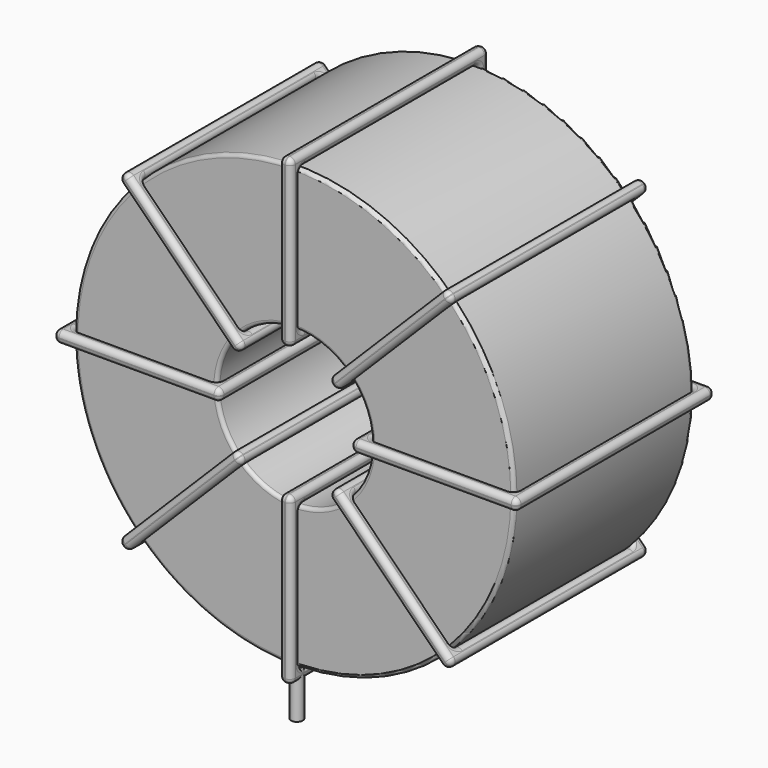
from build123d import *

# Parameters (mm, degrees)
SKETCH001_R       = 0.85
PAD001_DEPTH      = 1.7
PAD001_DEPTH_BACK = 5.2
SKETCH_R          = 32.1
SKETCH_R_2        = 11.266667
PAD_DEPTH         = 16.35
FILLET_R          = 0.5
SKETCH003_W       = 24.233333
SKETCH003_H       = 36.1
SKETCH003_W_2     = 20.833333
SKETCH003_H_2     = 32.7
PAD002_DEPTH      = 0.85
FILLET001_R       = 0.799
SKETCH004_W       = 24.233333
SKETCH004_H       = 36.1
SKETCH004_W_2     = 20.833333
SKETCH004_H_2     = 32.7
PAD003_DEPTH      = 0.85
FILLET002_R       = 0.799
SKETCH005_W       = 24.233333
SKETCH005_H       = 36.1
SKETCH005_W_2     = 20.833333
SKETCH005_H_2     = 32.7
PAD004_DEPTH      = 0.85
FILLET003_R       = 0.799
SKETCH006_W       = 24.233333
SKETCH006_H       = 36.1
SKETCH006_W_2     = 20.833333
SKETCH006_H_2     = 32.7
PAD005_DEPTH      = 0.85
FILLET004_R       = 0.799


with BuildPart() as pad001:
    # Sketch001 → Pad001 (new body, two sides)
    with BuildSketch(Plane.XY.offset(2.2)) as pad001_sk:
        Circle(SKETCH001_R)
        with Locations((0, -31.8)):
            Circle(SKETCH001_R)
    extrude(amount=PAD001_DEPTH)
    extrude(pad001_sk.sketch, amount=-PAD001_DEPTH_BACK)


with BuildPart() as fillet_body:
    # Sketch → Pad (new body, symmetric)
    with BuildSketch(Plane.XZ.offset(15.9)):
        with Locations((0, 36)):
            Circle(SKETCH_R)
        with Locations((0, 36)):
            Circle(SKETCH_R_2, mode=Mode.SUBTRACT)
    extrude(amount=PAD_DEPTH, both=True)

    # Fillet
    fillet_edges = [fillet_body.edges().sort_by_distance(p)[0] for p in [
        (-11.266667, -32.25, 36),
        (-32.1, -32.25, 36),
        (-32.1, 0.45, 36),
    ]]
    fillet(fillet_edges, radius=FILLET_R)


with BuildPart() as fillet001:
    # Sketch003 → Pad002 (new body, symmetric)
    with BuildSketch(Plane(origin=(0, 2.15, 36), x_dir=(1, 0, 0), z_dir=(0, 0, -1))):
        with Locations((-21.683333, 18.05)):
            Rectangle(SKETCH003_W, SKETCH003_H)
        with Locations((-21.683333, 18.05)):
            Rectangle(SKETCH003_W_2, SKETCH003_H_2, mode=Mode.SUBTRACT)
        with Locations((21.683333, 18.05)):
            Rectangle(SKETCH003_W, SKETCH003_H)
        with Locations((21.683333, 18.05)):
            Rectangle(SKETCH003_W_2, SKETCH003_H_2, mode=Mode.SUBTRACT)
    extrude(amount=PAD002_DEPTH, both=True)

    # Fillet001
    fillet001_edges = [fillet001.edges().sort_by_distance(p)[0] for p in [
        (32.1, -32.25, 36),
        (32.1, 0.45, 36),
        (32.1, -15.9, 36.85),
        (32.1, -15.9, 35.15),
        (33.8, 2.15, 36),
        (9.566667, 2.15, 36),
        (21.683333, 2.15, 36.85),
        (21.683333, 2.15, 35.15),
        (9.566667, -33.95, 36),
        (9.566667, -15.9, 36.85),
        (9.566667, -15.9, 35.15),
        (-32.1, -32.25, 36),
        (-11.266667, -32.25, 36),
        (-21.683333, -32.25, 36.85),
        (-21.683333, -32.25, 35.15),
        (-11.266667, 0.45, 36),
        (-11.266667, -15.9, 36.85),
        (-11.266667, -15.9, 35.15),
        (-9.566667, 2.15, 36),
        (-33.8, 2.15, 36),
        (-21.683333, 2.15, 36.85),
        (-21.683333, 2.15, 35.15),
        (-33.8, -33.95, 36),
        (-33.8, -15.9, 36.85),
        (-33.8, -15.9, 35.15),
        (11.266667, -32.25, 36),
        (21.683333, -32.25, 36.85),
        (21.683333, -32.25, 35.15),
        (-32.1, 0.45, 36),
        (-32.1, -15.9, 36.85),
        (-32.1, -15.9, 35.15),
        (-21.683333, 0.45, 36.85),
        (-21.683333, 0.45, 35.15),
        (-9.566667, -33.95, 36),
        (-21.683333, -33.95, 36.85),
        (-21.683333, -33.95, 35.15),
        (-9.566667, -15.9, 36.85),
        (-9.566667, -15.9, 35.15),
        (33.8, -33.95, 36),
        (21.683333, -33.95, 36.85),
        (21.683333, -33.95, 35.15),
        (33.8, -15.9, 36.85),
        (33.8, -15.9, 35.15),
        (11.266667, 0.45, 36),
        (11.266667, -15.9, 36.85),
        (11.266667, -15.9, 35.15),
        (21.683333, 0.45, 36.85),
        (21.683333, 0.45, 35.15),
    ]]
    fillet(fillet001_edges, radius=FILLET001_R)


with BuildPart() as fillet002:
    # Sketch004 → Pad003 (new body, symmetric)
    with BuildSketch(Plane(origin=(0, 2.15, 36), x_dir=(0.707108, 0, 0.707106), z_dir=(0.707106, 0, -0.707108))):
        with Locations((-21.683333, 18.05)):
            Rectangle(SKETCH004_W, SKETCH004_H)
        with Locations((-21.683333, 18.05)):
            Rectangle(SKETCH004_W_2, SKETCH004_H_2, mode=Mode.SUBTRACT)
        with Locations((21.683333, 18.05)):
            Rectangle(SKETCH004_W, SKETCH004_H)
        with Locations((21.683333, 18.05)):
            Rectangle(SKETCH004_W_2, SKETCH004_H_2, mode=Mode.SUBTRACT)
    extrude(amount=PAD003_DEPTH, both=True)

    # Fillet002
    fillet002_edges = [fillet002.edges().sort_by_distance(p)[0] for p in [
        (-7.966746, -32.25, 28.033273),
        (-7.966746, 0.45, 28.033273),
        (-8.567786, -15.9, 28.634314),
        (-7.365706, -15.9, 27.432231),
        (-23.900237, -33.95, 12.099818),
        (-6.764663, -33.95, 29.235353),
        (-15.93349, -33.95, 21.268627),
        (-14.73141, -33.95, 20.066544),
        (-6.764663, 2.15, 29.235353),
        (-7.365703, -15.9, 29.836394),
        (-6.163623, -15.9, 28.634311),
        (7.966746, -32.25, 43.966727),
        (22.698154, -32.25, 58.698101),
        (14.73141, -32.25, 51.933456),
        (15.93349, -32.25, 50.731373),
        (22.698154, 0.45, 58.698101),
        (22.097114, -15.9, 59.299143),
        (23.299194, -15.9, 58.09706),
        (6.764663, -33.95, 42.764647),
        (23.900237, -33.95, 59.900182),
        (14.73141, -33.95, 51.933456),
        (15.93349, -33.95, 50.731373),
        (23.900237, 2.15, 59.900182),
        (23.299197, -15.9, 60.501223),
        (24.501277, -15.9, 59.29914),
        (-22.698154, -32.25, 13.301899),
        (-15.93349, -32.25, 21.268627),
        (-14.73141, -32.25, 20.066544),
        (7.966746, 0.45, 43.966727),
        (7.365706, -15.9, 44.567769),
        (8.567786, -15.9, 43.365686),
        (14.73141, 0.45, 51.933456),
        (15.93349, 0.45, 50.731373),
        (6.764663, 2.15, 42.764647),
        (14.73141, 2.15, 51.933456),
        (15.93349, 2.15, 50.731373),
        (6.163623, -15.9, 43.365689),
        (7.365703, -15.9, 42.163606),
        (-23.900237, 2.15, 12.099818),
        (-15.93349, 2.15, 21.268627),
        (-14.73141, 2.15, 20.066544),
        (-24.501277, -15.9, 12.70086),
        (-23.299197, -15.9, 11.498777),
        (-22.698154, 0.45, 13.301899),
        (-23.299194, -15.9, 13.90294),
        (-22.097114, -15.9, 12.700857),
        (-15.93349, 0.45, 21.268627),
        (-14.73141, 0.45, 20.066544),
    ]]
    fillet(fillet002_edges, radius=FILLET002_R)


with BuildPart() as fillet003:
    # Sketch005 → Pad004 (new body, symmetric)
    with BuildSketch(Plane(origin=(0, 2.15, 36), x_dir=(0.707108, 0, -0.707106), z_dir=(-0.707106, 0, -0.707108))):
        with Locations((-21.683333, 18.05)):
            Rectangle(SKETCH005_W, SKETCH005_H)
        with Locations((-21.683333, 18.05)):
            Rectangle(SKETCH005_W_2, SKETCH005_H_2, mode=Mode.SUBTRACT)
        with Locations((21.683333, 18.05)):
            Rectangle(SKETCH005_W, SKETCH005_H)
        with Locations((21.683333, 18.05)):
            Rectangle(SKETCH005_W_2, SKETCH005_H_2, mode=Mode.SUBTRACT)
    extrude(amount=PAD004_DEPTH, both=True)

    # Fillet003
    fillet003_edges = [fillet003.edges().sort_by_distance(p)[0] for p in [
        (22.698154, -32.25, 13.301899),
        (22.698154, 0.45, 13.301899),
        (23.299194, -15.9, 13.90294),
        (22.097114, -15.9, 12.700857),
        (23.900237, 2.15, 12.099818),
        (6.764663, 2.15, 29.235353),
        (15.93349, 2.15, 21.268627),
        (14.73141, 2.15, 20.066544),
        (6.764663, -33.95, 29.235353),
        (7.365703, -15.9, 29.836394),
        (6.163623, -15.9, 28.634311),
        (-22.698154, -32.25, 58.698101),
        (-7.966746, -32.25, 43.966727),
        (-14.73141, -32.25, 51.933456),
        (-15.93349, -32.25, 50.731373),
        (-7.966746, 0.45, 43.966727),
        (-7.365706, -15.9, 44.567769),
        (-8.567786, -15.9, 43.365686),
        (-6.764663, 2.15, 42.764647),
        (-23.900237, 2.15, 59.900182),
        (-14.73141, 2.15, 51.933456),
        (-15.93349, 2.15, 50.731373),
        (-23.900237, -33.95, 59.900182),
        (-23.299197, -15.9, 60.501223),
        (-24.501277, -15.9, 59.29914),
        (7.966746, -32.25, 28.033273),
        (15.93349, -32.25, 21.268627),
        (14.73141, -32.25, 20.066544),
        (-22.698154, 0.45, 58.698101),
        (-22.097114, -15.9, 59.299143),
        (-23.299194, -15.9, 58.09706),
        (-14.73141, 0.45, 51.933456),
        (-15.93349, 0.45, 50.731373),
        (-6.764663, -33.95, 42.764647),
        (-14.73141, -33.95, 51.933456),
        (-15.93349, -33.95, 50.731373),
        (-6.163623, -15.9, 43.365689),
        (-7.365703, -15.9, 42.163606),
        (23.900237, -33.95, 12.099818),
        (15.93349, -33.95, 21.268627),
        (14.73141, -33.95, 20.066544),
        (24.501277, -15.9, 12.70086),
        (23.299197, -15.9, 11.498777),
        (7.966746, 0.45, 28.033273),
        (8.567786, -15.9, 28.634314),
        (7.365706, -15.9, 27.432231),
        (15.93349, 0.45, 21.268627),
        (14.73141, 0.45, 20.066544),
    ]]
    fillet(fillet003_edges, radius=FILLET003_R)


with BuildPart() as fillet004:
    # Sketch006 → Pad005 (new body, symmetric)
    with BuildSketch(Plane(origin=(0, 2.15, 36), x_dir=(0, 0, 1), z_dir=(1, 0, 0))):
        with Locations((-21.683333, 18.05)):
            Rectangle(SKETCH006_W, SKETCH006_H)
        with Locations((-21.683333, 18.05)):
            Rectangle(SKETCH006_W_2, SKETCH006_H_2, mode=Mode.SUBTRACT)
        with Locations((21.683333, 18.05)):
            Rectangle(SKETCH006_W, SKETCH006_H)
        with Locations((21.683333, 18.05)):
            Rectangle(SKETCH006_W_2, SKETCH006_H_2, mode=Mode.SUBTRACT)
    extrude(amount=PAD005_DEPTH, both=True)

    # Fillet004
    fillet004_edges = [fillet004.edges().sort_by_distance(p)[0] for p in [
        (0, -32.25, 24.733333),
        (0, 0.45, 24.733333),
        (-0.85, -15.9, 24.733333),
        (0.85, -15.9, 24.733333),
        (0, -33.95, 2.2),
        (0, -33.95, 26.433333),
        (-0.85, -33.95, 14.316667),
        (0.85, -33.95, 14.316667),
        (0, 2.15, 26.433333),
        (-0.85, -15.9, 26.433333),
        (0.85, -15.9, 26.433333),
        (0, -32.25, 47.266667),
        (0, -32.25, 68.1),
        (-0.85, -32.25, 57.683333),
        (0.85, -32.25, 57.683333),
        (0, 0.45, 68.1),
        (-0.85, -15.9, 68.1),
        (0.85, -15.9, 68.1),
        (0, -33.95, 45.566667),
        (0, -33.95, 69.8),
        (-0.85, -33.95, 57.683333),
        (0.85, -33.95, 57.683333),
        (0, 2.15, 69.8),
        (-0.85, -15.9, 69.8),
        (0.85, -15.9, 69.8),
        (0, -32.25, 3.9),
        (-0.85, -32.25, 14.316667),
        (0.85, -32.25, 14.316667),
        (0, 0.45, 47.266667),
        (-0.85, -15.9, 47.266667),
        (0.85, -15.9, 47.266667),
        (-0.85, 0.45, 57.683333),
        (0.85, 0.45, 57.683333),
        (0, 2.15, 45.566667),
        (-0.85, 2.15, 57.683333),
        (0.85, 2.15, 57.683333),
        (-0.85, -15.9, 45.566667),
        (0.85, -15.9, 45.566667),
        (0, 2.15, 2.2),
        (-0.85, 2.15, 14.316667),
        (0.85, 2.15, 14.316667),
        (-0.85, -15.9, 2.2),
        (0.85, -15.9, 2.2),
        (0, 0.45, 3.9),
        (-0.85, -15.9, 3.9),
        (0.85, -15.9, 3.9),
        (-0.85, 0.45, 14.316667),
        (0.85, 0.45, 14.316667),
    ]]
    fillet(fillet004_edges, radius=FILLET004_R)


solid = Compound([pad001.part, fillet_body.part, fillet001.part, fillet002.part, fillet003.part, fillet004.part])
